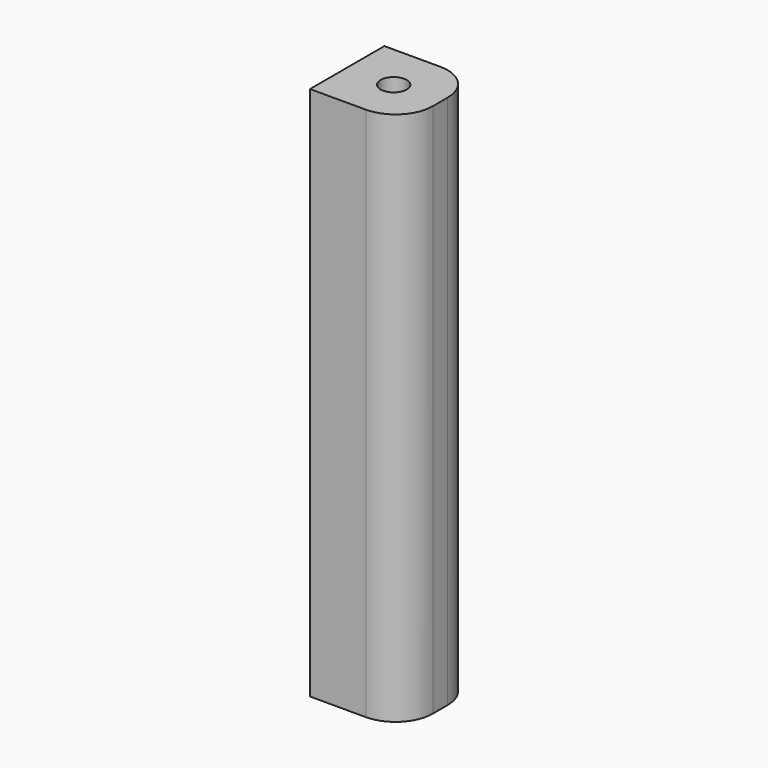
from build123d import *

# Parameters (mm, degrees)
CYLINDER004_R     = 1.4
CYLINDER004_DEPTH = 61
CYLINDER003_R     = 1.4
CYLINDER003_DEPTH = 10
BOX_W             = 10
BOX_H             = 10
BOX_DEPTH         = 57.5
FILLET_R          = 4
FILLET001_R       = 4


with BuildPart() as cylinder004:
    # Cylinder004 → Cylinder004 (new body)
    with BuildSketch(Plane(origin=(5, 105, -1.5), x_dir=(1, 0, 0), z_dir=(0, 0, 1))):
        Circle(CYLINDER004_R)
    extrude(amount=CYLINDER004_DEPTH)


with BuildPart() as cylinder003:
    # Cylinder003 → Cylinder003 (new body)
    with BuildSketch(Plane(origin=(5, 105, -1), x_dir=(1, 0, 0), z_dir=(0, 0, 1))):
        Circle(CYLINDER003_R)
    extrude(amount=CYLINDER003_DEPTH)


with BuildPart() as spacer:
    # Box → Box (new body)
    with BuildSketch(Plane(origin=(0, 100, 0), x_dir=(1, 0, 0), z_dir=(0, 0, 1))):
        with Locations((5, 5)):
            Rectangle(BOX_W, BOX_H)
    extrude(amount=BOX_DEPTH)

    # Cut003: cut Cylinder003
    add(cylinder003.part, mode=Mode.SUBTRACT)

    # Cut004: cut Cylinder004
    add(cylinder004.part, mode=Mode.SUBTRACT)

    # Fillet
    fillet_edges = [spacer.edges().sort_by_distance(p)[0] for p in [
        (10, 110, 28.75),
    ]]
    fillet(fillet_edges, radius=FILLET_R)

    # Fillet001
    fillet001_edges = [spacer.edges().sort_by_distance(p)[0] for p in [
        (10, 100, 28.75),
    ]]
    fillet(fillet001_edges, radius=FILLET001_R)


solid = spacer.part
